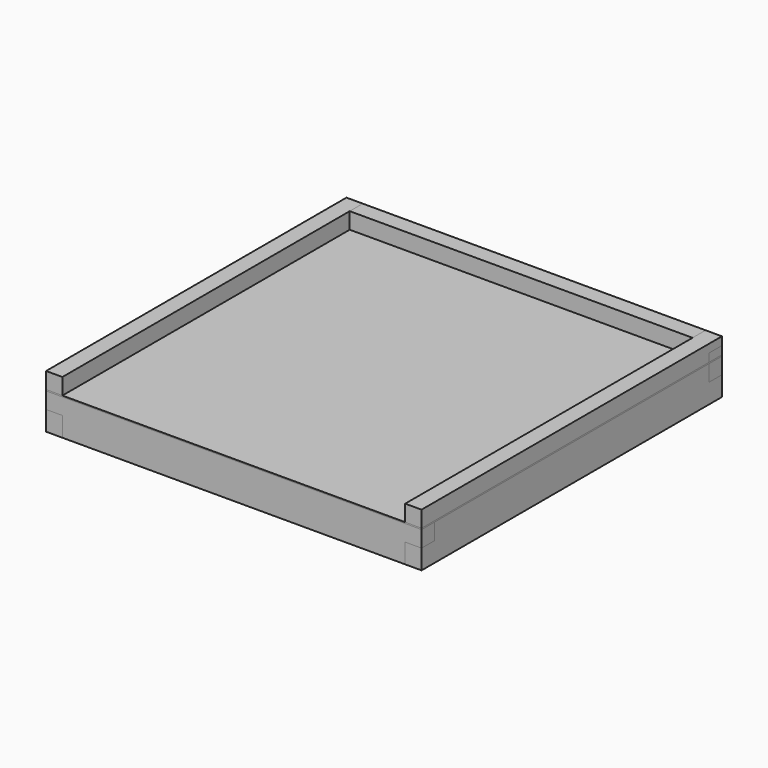
from build123d import *

# Parameters (mm, degrees)
F0_W      = 460
F0_H      = 460
F1_DEPTH  = 1.5
F3_DEPTH  = 20
F5_DEPTH  = 20
F7_DEPTH  = 20
F8_W      = 460
F8_H      = 20
F9_DEPTH  = 20
F11_DEPTH = 20
F13_DEPTH = 20
F15_DEPTH = 20
F19_DEPTH = 15


with BuildPart() as f1:
    # F0 (on Top) → F1 (new body)
    with BuildSketch(Plane.XY):
        with Locations((230, -230)):
            Rectangle(F0_W, F0_H)
    extrude(amount=F1_DEPTH)


with BuildPart() as f3:
    # F2 (on Front) → F3 (new body)
    with BuildSketch(Plane.XZ):
        Polygon((0, 11.5), (0, 1.5), (460, 1.5), (460, 11.5), (440, 11.5), (440, 21.5), (20, 21.5), (20, 11.5), align=None)
    extrude(amount=F3_DEPTH)


with BuildPart() as f5:
    # F4 (on face) → F5 (new body)
    with BuildSketch(Plane(origin=(0, 0, 0), x_dir=(0, -1, 0), z_dir=(-1, 0, 0))):
        Polygon((20, 11.5), (20, 1.5), (460, 1.5), (460, 21.5), (0, 21.5), (0, 11.5), align=None)
    extrude(amount=-F5_DEPTH)


with BuildPart() as f7:
    # F6 (on face) → F7 (new body)
    with BuildSketch(Plane.YZ.offset(460)):
        Polygon((-460, 1.5), (-20, 1.5), (-20, 11.5), (0, 11.5), (0, 21.5), (-460, 21.5), align=None)
    extrude(amount=-F7_DEPTH)


with BuildPart() as f9:
    # F8 (on face) → F9 (new body)
    with BuildSketch(Plane(origin=(0, 0, 0), x_dir=(1, 0, 0), z_dir=(0, 0, -1))):
        with Locations((230, 10)):
            Rectangle(F8_W, F8_H)
    extrude(amount=F9_DEPTH)


with BuildPart() as f11:
    # F10 (on face) → F11 (new body)
    with BuildSketch(Plane(origin=(0, 0, 0), x_dir=(0, -1, 0), z_dir=(-1, 0, 0))):
        Polygon((20, 0), (20, -20), (0, -20), (0, -44), (460, -44), (460, -20), (441.5642023087, -20), (441.5642023087, 0), align=None)
    extrude(amount=-F11_DEPTH)


with BuildPart() as f13:
    # F12 (on face) → F13 (new body)
    with BuildSketch(Plane.YZ.offset(460)):
        Polygon((0, -20), (-20, -20), (-20, 0), (-441.5642023087, 0), (-441.5642023087, -20), (-460, -20), (-460, -44), (0, -44), align=None)
    extrude(amount=-F13_DEPTH)


with BuildPart() as f15:
    # F14 (on face) → F15 (new body)
    with BuildSketch(Plane.XZ.offset(460)):
        Polygon((0, -20), (20, -20), (20, -44), (440, -44), (440, -20), (460, -20), (460, 0), (0, 0), align=None)
    extrude(amount=-F15_DEPTH)


with BuildPart() as f19:
    # F18 (on face) → F19 (new body)
    with BuildSketch(Plane.YZ.offset(20)):
        with BuildLine():
            Line((-439.7849869728, -44), (0, -44))
            Line((0, -44), (0, -39))
            ThreePointArc((0, -39), (-1.4644660941, -35.4644660941), (-5, -34))
            Line((-5, -34), (-439.7849869728, -34))
            Line((-439.7849869728, -34), (-439.7849869728, -44))
        make_face()
    extrude(amount=F19_DEPTH)


with BuildPart() as f20_1:
    # F20: instance of F19
    add(f19.part.mirror(Plane.YZ.offset(230)))


solid = Compound([f1.part, f3.part, f5.part, f7.part, f9.part, f11.part, f13.part, f15.part, f19.part, f20_1.part])
